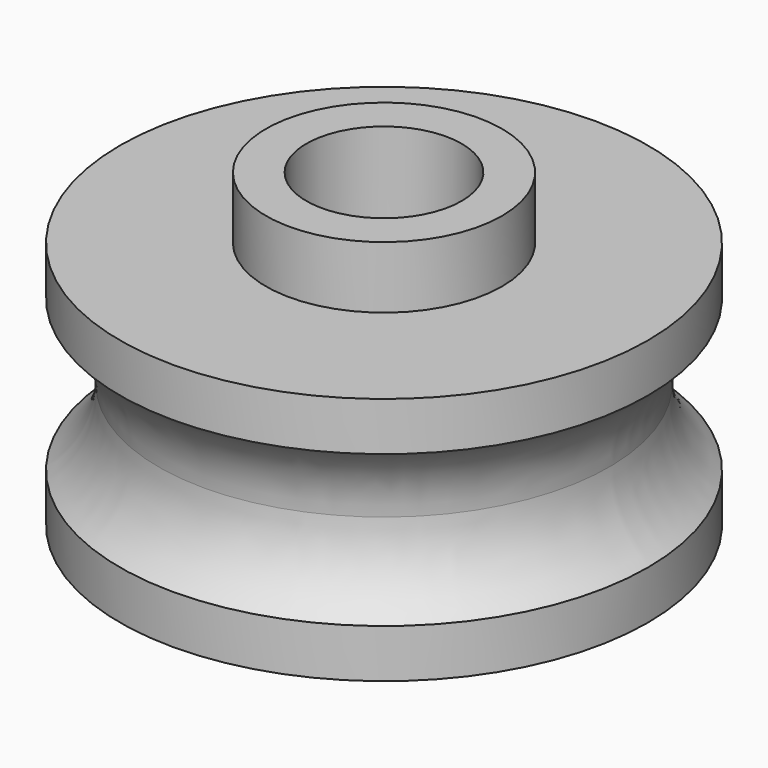
from build123d import *

# Parameters (mm, degrees)
F0_R     = 8.5
F1_DEPTH = 8
F2_R     = 3.8
F3_DEPTH = 2
F4_R     = 2.5
F5_DEPTH = 10.001
F6_R     = 3
F8_R     = 3.8
F8_R_2   = 2.5
F9_DEPTH = 1


with BuildPart() as f1:
    # F0 (on Top) → F1 (new body)
    with BuildSketch(Plane.XY):
        Circle(F0_R)
    extrude(amount=F1_DEPTH)

    # F2 (on face) → F3 (join)
    with BuildSketch(Plane.XY.offset(8)):
        Circle(F2_R)
    extrude(amount=F3_DEPTH)

    # F4 (on face) → F5 (cut, through all)
    with BuildSketch(Plane.XY.offset(10)):
        Circle(F4_R)
    extrude(amount=-F5_DEPTH, mode=Mode.SUBTRACT)

    # F6 (on Right) → F7 (revolve, cut)
    with BuildSketch(Plane.YZ):
        with Locations((-10.25, 4)):
            Circle(F6_R)
    revolve(axis=Axis((0, 0, 7.899270393), (0, 0, 1)), mode=Mode.SUBTRACT)

    # F8 (on face) → F9 (cut)
    with BuildSketch(Plane(origin=(0, 0, 0), x_dir=(1, 0, 0), z_dir=(0, 0, -1))):
        Circle(F8_R)
        Circle(F8_R_2, mode=Mode.SUBTRACT)
    extrude(amount=-F9_DEPTH, mode=Mode.SUBTRACT)


solid = f1.part
